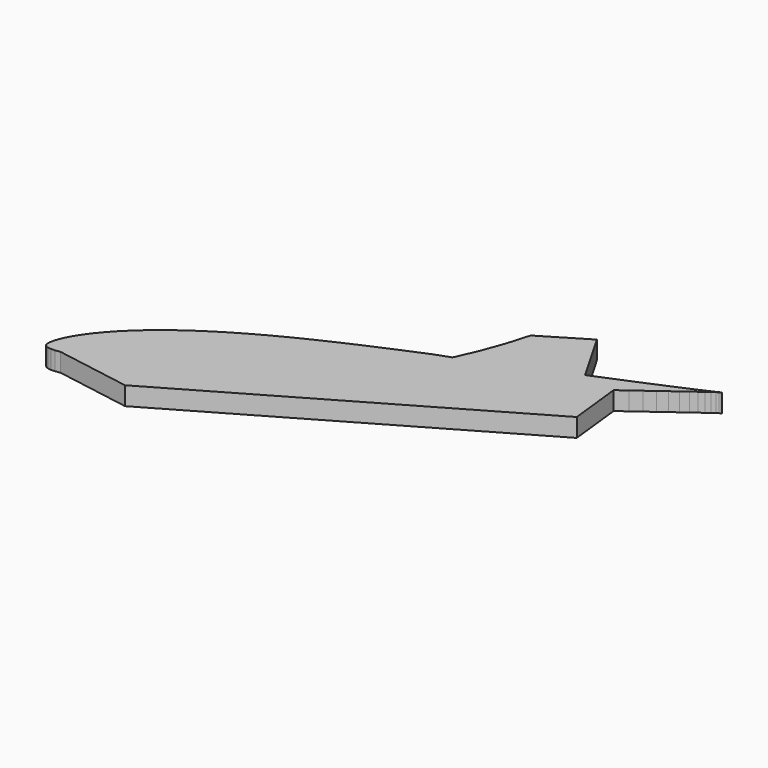
from build123d import *

# Parameters (mm, degrees)
PAD_DEPTH = 10


with BuildPart() as part:
    # Sketch → Pad (new body)
    with BuildSketch(Plane(origin=(0, 0, 0), x_dir=(0.866025, 0.5, 0), z_dir=(0, 0, 1))):
        with BuildLine():
            Line((290, 0), (289.7129, 0.0174))
            Line((289.7129, 0.0174), (288.8574, 0.0696))
            Line((288.8574, 0.0696), (287.4306, 0.1769))
            Line((287.4306, 0.1769), (285.4441, 0.3509))
            Line((285.4441, 0.3509), (282.9037, 0.6003))
            Line((282.9037, 0.6003), (279.8181, 0.9251))
            Line((279.8181, 0.9251), (276.1989, 1.3224))
            Line((276.1989, 1.3224), (272.0635, 1.7893))
            Line((272.0635, 1.7893), (267.4264, 2.3229))
            Line((267.4264, 2.3229), (262.3079, 2.9261))
            Line((262.3079, 2.9261), (256.7254, 3.6076))
            Line((256.7254, 3.6076), (250.6992, 4.3587))
            Line((250.6992, 4.3587), (244.2583, 5.1852))
            Line((244.2583, 5.1852), (237.4259, 6.0784))
            Line((237.4259, 6.0784), (230.2281, 7.0383))
            Line((230.2281, 7.0383), (230.2281, 40.028069))
            Line((230.2281, 40.028069), (201.90651, 39.515951))
            ThreePointArc((172.217343, 14.637652), (187.660006, 26.363067), (201.90651, 39.515951))
            Line((172.217343, 14.637652), (163.1743, 16.2081))
            Line((163.1743, 16.2081), (154.106, 17.371))
            Line((154.106, 17.371), (145, 18.4817))
            Line((145, 18.4817), (135.8969, 19.5199))
            Line((135.8969, 19.5199), (126.8257, 20.4682))
            Line((126.8257, 20.4682), (117.8299, 21.3034))
            Line((117.8299, 21.3034), (108.9414, 22.0023))
            Line((108.9414, 22.0023), (100.1921, 22.5446))
            Line((100.1921, 22.5446), (91.6226, 22.9129))
            Line((91.6226, 22.9129), (83.2619, 23.0898))
            Line((83.2619, 23.0898), (75.1448, 23.0608))
            Line((75.1448, 23.0608), (67.3061, 22.8201))
            Line((67.3061, 22.8201), (59.7719, 22.3561))
            Line((59.7719, 22.3561), (52.5741, 21.6717))
            Line((52.5741, 21.6717), (45.7417, 20.7698))
            Line((45.7417, 20.7698), (39.3008, 19.662))
            Line((39.3008, 19.662), (33.2746, 18.3628))
            Line((33.2746, 18.3628), (27.6921, 16.8896))
            Line((27.6921, 16.8896), (22.5736, 15.2714))
            Line((22.5736, 15.2714), (17.9365, 13.5314))
            Line((17.9365, 13.5314), (13.8011, 11.7015))
            Line((13.8011, 11.7015), (10.1819, 9.8165))
            Line((10.1819, 9.8165), (7.0963, 7.9112))
            Line((7.0963, 7.9112), (4.5559, 6.0378))
            Line((4.5559, 6.0378), (2.5694, 4.263))
            Line((2.5694, 4.263), (1.1426, 2.6535))
            Line((1.1426, 2.6535), (0.2871, 1.2383))
            Line((0.2871, 1.2383), (0, 0))
            Line((0, 0), (0.2871, -1.131))
            Line((0.2871, -1.131), (1.1426, -2.2243))
            Line((1.1426, -2.2243), (2.5694, -3.3176))
            Line((2.5694, -3.3176), (4.5559, -4.3964))
            Line((4.5559, -4.3964), (7.0963, -5.4201))
            Line((38.675534, -31.593528), (7.0963, -5.4201))
            Line((38.675534, -31.593528), (232.520951, -31.593528))
            Line((232.520951, -31.593528), (244.2583, -4.8227))
            Line((244.2583, -4.8227), (250.6992, -4.1267))
            Line((250.6992, -4.1267), (256.7254, -3.4626))
            Line((256.7254, -3.4626), (262.3079, -2.842))
            Line((262.3079, -2.842), (267.4264, -2.2765))
            Line((267.4264, -2.2765), (272.0635, -1.7661))
            Line((272.0635, -1.7661), (276.1989, -1.3137))
            Line((276.1989, -1.3137), (279.8181, -0.9222))
            Line((279.8181, -0.9222), (282.9037, -0.5974))
            Line((282.9037, -0.5974), (285.4441, -0.3509))
            Line((285.4441, -0.3509), (287.4306, -0.1769))
            Line((287.4306, -0.1769), (288.8574, -0.0696))
            Line((288.8574, -0.0696), (289.7129, -0.0174))
            Line((289.7129, -0.0174), (290, 0))
        make_face()
    extrude(amount=PAD_DEPTH)


solid = part.part
